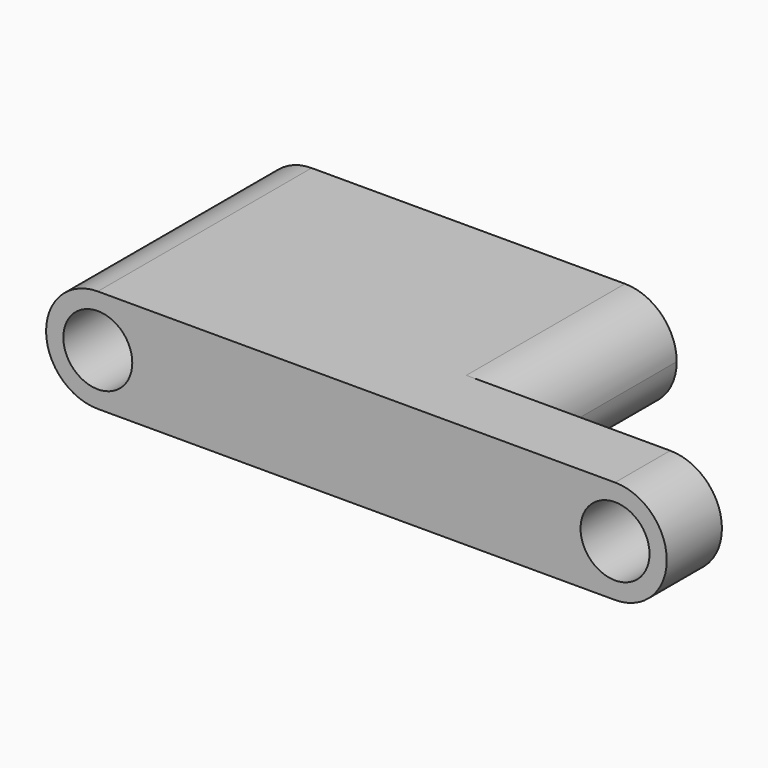
from build123d import *

# Parameters (mm, degrees)
F0_R     = 2
F1_DEPTH = 15.5
F2_DEPTH = 11.5


with BuildPart() as f1:
    # F0 (on Front) → F1 (new body)
    with BuildSketch(Plane.XZ):
        with BuildLine():
            Line((0, 3), (-18.177, 3))
            ThreePointArc((-18.177, 3), (-21.177, 0), (-18.177, -3))
            Line((-18.177, -3), (0, -3))
            ThreePointArc((0, -3), (-3, 0), (0, 3))
        make_face()
        with Locations((-18.177, 0)):
            Circle(F0_R, mode=Mode.SUBTRACT)
        with BuildLine():
            Line((11.823, 3), (0, 3))
            ThreePointArc((0, 3), (2.1213203436, 2.1213203436), (3, 0))
            ThreePointArc((3, 0), (2.1213203436, -2.1213203436), (0, -3))
            Line((0, -3), (11.823, -3))
            ThreePointArc((11.823, -3), (14.823, 0), (11.823, 3))
        make_face()
        with Locations((11.823, 0)):
            Circle(F0_R, mode=Mode.SUBTRACT)
        with BuildLine():
            ThreePointArc((3, 0), (2.1213203436, 2.1213203436), (0, 3))
            ThreePointArc((0, 3), (-3, 0), (0, -3))
            ThreePointArc((0, -3), (2.1213203436, -2.1213203436), (3, 0))
        make_face()
    extrude(amount=F1_DEPTH)

    # F0 (on Front) → F2 (cut)
    with BuildSketch(Plane.XZ):
        with BuildLine():
            Line((11.823, 3), (0, 3))
            ThreePointArc((0, 3), (2.1213203436, 2.1213203436), (3, 0))
            ThreePointArc((3, 0), (2.1213203436, -2.1213203436), (0, -3))
            Line((0, -3), (11.823, -3))
            ThreePointArc((11.823, -3), (14.823, 0), (11.823, 3))
        make_face()
        with Locations((11.823, 0)):
            Circle(F0_R, mode=Mode.SUBTRACT)
    extrude(amount=F2_DEPTH, mode=Mode.SUBTRACT)


solid = f1.part
